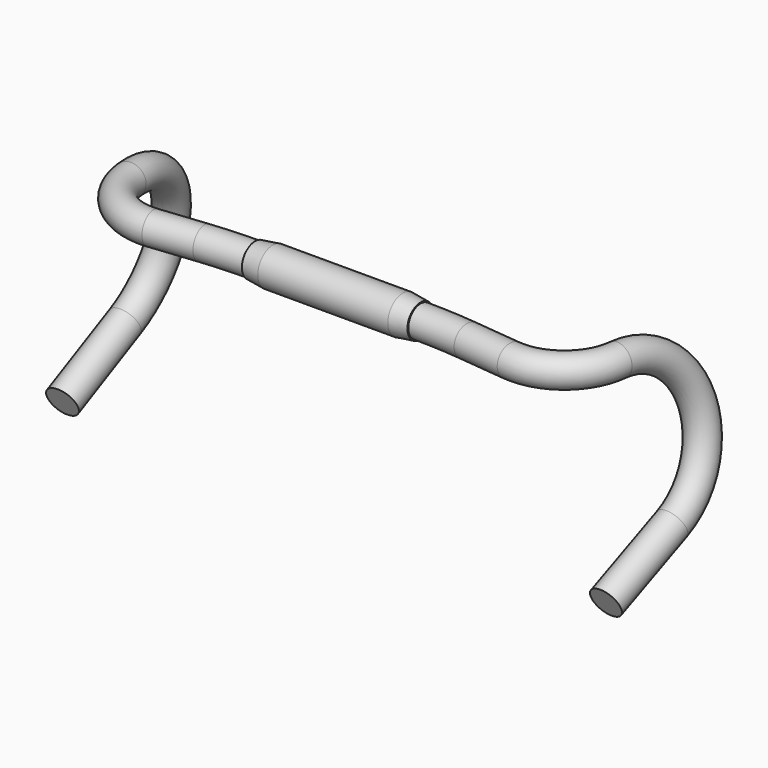
from build123d import *

# Parameters (mm, degrees)
F0_R      = 13
F0_R_2    = 15.9
F9_DEPTH  = 70
F10_SIZE2 = 15
F10_SIZE  = 2


with BuildPart() as f8:
    # F8: sweep along a path in F7, F1
    with BuildLine(Plane(origin=(194.2839527394, -20.4200662771, 34.4462026891), x_dir=(-0.1013596641, -0.9946875216, -0.01797089), z_dir=(-0.9794128731, 0.102940441, -0.1736481777))) as f8_path:
        Line((-16.7339904604, -193.958608329), (-85.055994784, -163.0215152981))
        ThreePointArc((-85.055994784, -163.0215152981), (-122.7224511399, -89.0655745033), (-58.8600502451, -36.0576801367))
    with BuildLine(Plane.XY) as f8_path_2:
        ThreePointArc((206.5447790536, 38.1272912216), (188.2847038377, 4.4964163122), (151.5922611218, -6.3723803834))
        Line((151.5922611218, -6.3723803834), (111.8113853071, -2.1912418527))
        ThreePointArc((111.8113853071, -2.1912418527), (90.9343824972, -0.5481860982), (70, 0))
        Line((70, 0), (0, 0))
    # F0 (on Right) → F8 (sweep)
    with BuildSketch(Plane.YZ):
        Circle(F0_R)
    sweep(path=f8_path.line + f8_path_2.line)

    # F0 (on Right) → F9 (join)
    with BuildSketch(Plane.YZ):
        Circle(F0_R_2)
        Circle(F0_R, mode=Mode.SUBTRACT)
    extrude(amount=F9_DEPTH)

    # F10
    f10_edges = [f8.edges().sort_by_distance(p)[0] for p in [
        (70, -15.9, 0),
    ]]
    f10_side = f8.faces().sort_by_distance((70, -15.45028, 0))[0]
    chamfer(f10_edges, length=F10_SIZE, length2=F10_SIZE2, reference=f10_side)

    # F11: F8 across plane


with BuildPart() as f8_1:
    add(f8.part)
    add(f8.part.mirror(Plane.YZ))


solid = f8_1.part
